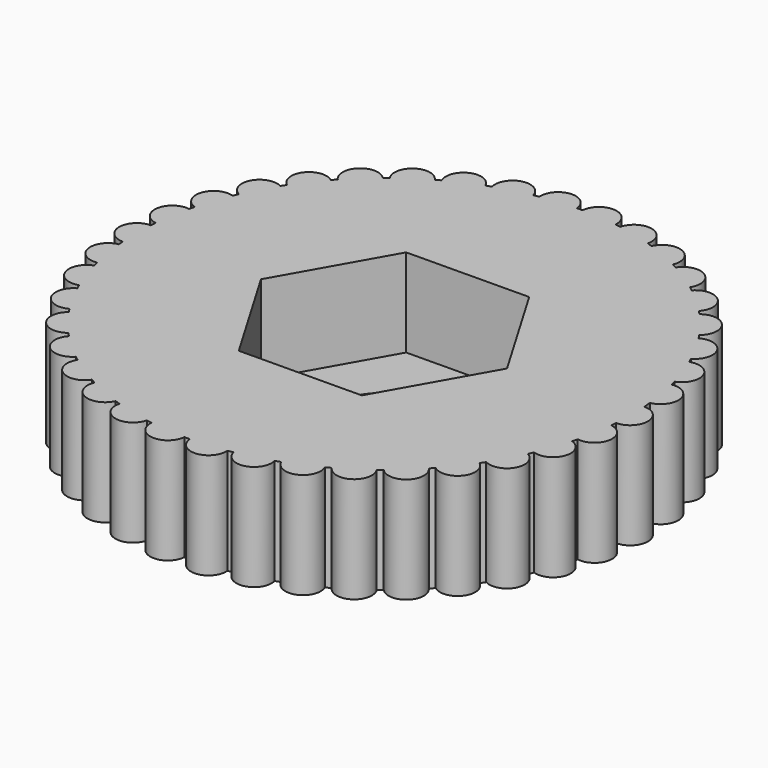
from build123d import *

# Parameters (mm, degrees)
F0_R     = 1.5
F1_DEPTH = 3
F2_DEPTH = 2.5


with BuildPart() as f1:
    # F0 (on Top) → F1 (new body)
    with BuildSketch(Plane.XY):
        with BuildLine():
            ThreePointArc((6.98212, -0.5), (6.995529, -0.25016), (7, 0))
            ThreePointArc((7, 0), (6.995529, 0.25016), (6.98212, 0.5))
            ThreePointArc((6.98212, 0.5), (6.973363, 0.61009), (6.96287, 0.720029))
            ThreePointArc((6.96287, 0.720029), (6.893654, 1.215537), (6.789222, 1.704836))
            ThreePointArc((6.789222, 1.704836), (6.769952, 1.779819), (6.749853, 1.854583))
            ThreePointArc((6.749853, 1.854583), (6.600142, 2.331979), (6.416714, 2.797461))
            ThreePointArc((6.416714, 2.797461), (6.385382, 2.868256), (6.35327, 2.938701))
            ThreePointArc((6.35327, 2.938701), (6.127134, 3.385), (5.869698, 3.814006))
            ThreePointArc((5.869698, 3.814006), (5.827157, 3.87869), (5.783904, 3.942899))
            ThreePointArc((5.783904, 3.942899), (5.487495, 4.345964), (5.163052, 4.726827))
            ThreePointArc((5.163052, 4.726827), (5.110459, 4.78364), (5.057241, 4.839867))
            ThreePointArc((5.057241, 4.839867), (4.698619, 5.188736), (4.315993, 5.511098))
            ThreePointArc((4.315993, 5.511098), (4.254778, 5.558495), (4.193043, 5.605211))
            ThreePointArc((4.193043, 5.605211), (3.78196, 5.890397), (3.351557, 6.145491))
            ThreePointArc((3.351557, 6.145491), (3.283385, 6.182183), (3.214811, 6.218118))
            ThreePointArc((3.214811, 6.218118), (2.762449, 6.431864), (2.295974, 6.612753))
            ThreePointArc((2.295974, 6.612753), (2.222698, 6.637742), (2.149151, 6.661918))
            ThreePointArc((2.149151, 6.661918), (1.66781, 6.798412), (1.177949, 6.900176))
            ThreePointArc((1.177949, 6.900176), (1.101563, 6.912782), (1.025043, 6.924542))
            ThreePointArc((1.025043, 6.924542), (0.527814, 6.980072), (0.02789, 6.999944))
            ThreePointArc((0.02789, 6.999944), (-0.049529, 6.999825), (-0.126942, 6.998849))
            ThreePointArc((-0.126942, 6.998849), (-0.626536, 6.971905), (-1.122928, 6.909344))
            ThreePointArc((-1.122928, 6.909344), (-1.199275, 6.896502), (-1.275475, 6.882817))
            ThreePointArc((-1.275475, 6.882817), (-1.763846, 6.774131), (-2.243208, 6.630839))
            ThreePointArc((-2.243208, 6.630839), (-2.316405, 6.605624), (-2.38932, 6.579601))
            ThreePointArc((-2.38932, 6.579601), (-2.853188, 6.392129), (-3.302481, 6.172003))
            ThreePointArc((-3.302481, 6.172003), (-3.370539, 6.135101), (-3.438186, 6.097449))
            ThreePointArc((-3.438186, 6.097449), (-3.864936, 5.836289), (-4.271941, 5.545315))
            ThreePointArc((-4.271941, 5.545315), (-4.333009, 5.49773), (-4.393547, 5.449472))
            ThreePointArc((-4.393547, 5.449472), (-4.771573, 5.121727), (-5.125223, 4.767818))
            ThreePointArc((-5.125223, 4.767818), (-5.17764, 4.710843), (-5.229424, 4.653292))
            ThreePointArc((-5.229424, 4.653292), (-5.548444, 4.267876), (-5.83912, 3.860657))
            ThreePointArc((-5.83912, 3.860657), (-5.881461, 3.795842), (-5.923082, 3.730563))
            ThreePointArc((-5.923082, 3.730563), (-6.174421, 3.297957), (-6.394219, 2.848503))
            ThreePointArc((-6.394219, 2.848503), (-6.425331, 2.777611), (-6.455658, 2.706379))
            ThreePointArc((-6.455658, 2.706379), (-6.632481, 2.238347), (-6.775421, 1.758881))
            ThreePointArc((-6.775421, 1.758881), (-6.79446, 1.68384), (-6.812667, 1.608592))
            ThreePointArc((-6.812667, 1.608592), (-6.910165, 1.117864), (-6.972362, 0.621426))
            ThreePointArc((-6.972362, 0.621426), (-6.978808, 0.544276), (-6.984401, 0.467059))
            ThreePointArc((-6.984401, 0.467059), (-6.999922, -0.03302), (-6.979684, -0.53293))
            ThreePointArc((-6.979684, -0.53293), (-6.973363, -0.61009), (-6.966189, -0.687176))
            ThreePointArc((-6.966189, -0.687176), (-6.899311, -1.183006), (-6.797188, -1.672792))
            ThreePointArc((-6.797188, -1.672792), (-6.778272, -1.747864), (-6.758527, -1.822723))
            ThreePointArc((-6.758527, -1.822723), (-6.611069, -2.300819), (-6.429838, -2.767161))
            ThreePointArc((-6.429838, -2.767161), (-6.398841, -2.838104), (-6.367061, -2.9087))
            ThreePointArc((-6.367061, -2.9087), (-6.143033, -3.35606), (-5.887624, -3.786276))
            ThreePointArc((-5.887624, -3.786276), (-5.845389, -3.85116), (-5.802439, -3.915572))
            ThreePointArc((-5.802439, -3.915572), (-5.507934, -4.320031), (-5.185291, -4.70242))
            ThreePointArc((-5.185291, -4.70242), (-5.132967, -4.75948), (-5.080015, -4.815958))
            ThreePointArc((-5.080015, -4.815958), (-4.723042, -5.166515), (-4.341941, -5.490678))
            ThreePointArc((-4.341941, -5.490678), (-4.280951, -5.538363), (-4.219436, -5.58537))
            ThreePointArc((-4.219436, -5.58537), (-3.809704, -5.872492), (-3.380509, -6.129613))
            ThreePointArc((-3.380509, -6.129613), (-3.31251, -6.166626), (-3.244107, -6.202884))
            ThreePointArc((-3.244107, -6.202884), (-2.792757, -6.418762), (-2.327141, -6.601849))
            ThreePointArc((-2.327141, -6.601849), (-2.253984, -6.627183), (-2.180552, -6.651706))
            ThreePointArc((-2.180552, -6.651706), (-1.69986, -6.790469), (-1.210485, -6.894543))
            ThreePointArc((-1.210485, -6.894543), (-1.134159, -6.907509), (-1.057695, -6.91963))
            ThreePointArc((-1.057695, -6.91963), (-0.560734, -6.977505), (-0.060909, -6.999735))
            ThreePointArc((-0.060909, -6.999735), (0.01651, -6.999981), (0.093926, -6.99937))
            ThreePointArc((0.093926, -6.99937), (0.593641, -6.974782), (1.090324, -6.914564))
            ThreePointArc((1.090324, -6.914564), (1.16673, -6.902082), (1.242994, -6.888757))
            ThreePointArc((1.242994, -6.888757), (1.731873, -6.782375), (2.211904, -6.641346))
            ThreePointArc((2.211904, -6.641346), (2.28522, -6.616477), (2.358257, -6.590799))
            ThreePointArc((2.358257, -6.590799), (2.823004, -6.405517), (3.27333, -6.187512))
            ThreePointArc((3.27333, -6.187512), (3.341562, -6.150932), (3.409385, -6.113599))
            ThreePointArc((3.409385, -6.113599), (3.837362, -5.854456), (4.245736, -5.565404))
            ThreePointArc((4.245736, -5.565404), (4.307028, -5.518108), (4.367793, -5.470136))
            ThreePointArc((4.367793, -5.470136), (4.74736, -5.144178), (5.102676, -4.791941))
            ThreePointArc((5.102676, -4.791941), (5.155361, -4.735214), (5.207415, -4.677908))
            ThreePointArc((5.207415, -4.677908), (5.528251, -4.294001), (5.820844, -3.888158))
            ThreePointArc((5.820844, -3.888158), (5.86349, -3.823544), (5.905419, -3.758461))
            ThreePointArc((5.905419, -3.758461), (6.158796, -3.327046), (6.380711, -2.878633))
            ThreePointArc((6.380711, -2.878633), (6.412157, -2.807889), (6.442819, -2.736801))
            ThreePointArc((6.442819, -2.736801), (6.621848, -2.269609), (6.767049, -1.790822))
            ThreePointArc((6.767049, -1.790822), (6.786441, -1.715871), (6.805003, -1.64071))
            ThreePointArc((6.805003, -1.64071), (6.904815, -1.150448), (6.969353, -0.654308))
            ThreePointArc((6.969353, -0.654308), (6.976163, -0.577189), (6.98212, -0.5))
        make_face()
        Polygon((1.705273, 3.015302), (3.463964, 0.030841), (1.758691, -2.984461), (-1.705273, -3.015302), (-3.463964, -0.030841), (-1.758691, 2.984461), align=None, mode=Mode.SUBTRACT)
        with BuildLine():
            ThreePointArc((6.98212, 0.5), (6.995529, 0.25016), (7, 0))
            ThreePointArc((7, 0), (6.995529, -0.25016), (6.98212, -0.5))
            ThreePointArc((6.98212, -0.5), (7.48212, 0), (6.98212, 0.5))
        make_face()
        with BuildLine():
            ThreePointArc((6.789222, 1.704836), (6.893654, 1.215537), (6.96287, 0.720029))
            ThreePointArc((6.96287, 0.720029), (7.36845, 1.299257), (6.789222, 1.704836))
        make_face()
        with BuildLine():
            ThreePointArc((6.805003, -1.64071), (7.380379, -1.229684), (6.969353, -0.654308))
            ThreePointArc((6.969353, -0.654308), (6.904815, -1.150448), (6.805003, -1.64071))
        make_face()
        with BuildLine():
            ThreePointArc((6.416714, 2.797461), (6.600142, 2.331979), (6.749853, 1.854583))
            ThreePointArc((6.749853, 1.854583), (7.054722, 2.492592), (6.416714, 2.797461))
        make_face()
        with BuildLine():
            ThreePointArc((6.442819, -2.736801), (7.077924, -2.425926), (6.767049, -1.790822))
            ThreePointArc((6.767049, -1.790822), (6.621848, -2.269609), (6.442819, -2.736801))
        make_face()
        with BuildLine():
            ThreePointArc((5.869698, 3.814006), (6.127134, 3.385), (6.35327, 2.938701))
            ThreePointArc((6.35327, 2.938701), (6.549136, 3.61814), (5.869698, 3.814006))
        make_face()
        with BuildLine():
            ThreePointArc((5.905419, -3.758461), (6.582979, -3.556193), (6.380711, -2.878633))
            ThreePointArc((6.380711, -2.878633), (6.158796, -3.327046), (5.905419, -3.758461))
        make_face()
        with BuildLine():
            ThreePointArc((5.163052, 4.726827), (5.487495, 4.345964), (5.783904, 3.942899))
            ThreePointArc((5.783904, 3.942899), (5.865442, 4.645289), (5.163052, 4.726827))
        make_face()
        with BuildLine():
            ThreePointArc((5.207415, -4.677908), (5.909005, -4.589747), (5.820844, -3.888158))
            ThreePointArc((5.820844, -3.888158), (5.528251, -4.294001), (5.207415, -4.677908))
        make_face()
        with BuildLine():
            ThreePointArc((4.315993, 5.511098), (4.698619, 5.188736), (5.057241, 4.839867))
            ThreePointArc((5.057241, 4.839867), (5.022233, 5.546107), (4.315993, 5.511098))
        make_face()
        with BuildLine():
            ThreePointArc((4.367793, -5.470136), (5.074331, -5.49848), (5.102676, -4.791941))
            ThreePointArc((5.102676, -4.791941), (4.74736, -5.144178), (4.367793, -5.470136))
        make_face()
        with BuildLine():
            ThreePointArc((3.351557, 6.145491), (3.78196, 5.890397), (4.193043, 5.605211))
            ThreePointArc((4.193043, 5.605211), (4.04244, 6.296094), (3.351557, 6.145491))
        make_face()
        with BuildLine():
            ThreePointArc((3.409385, -6.113599), (4.101658, -6.257677), (4.245736, -5.565404))
            ThreePointArc((4.245736, -5.565404), (3.837362, -5.854456), (3.409385, -6.113599))
        make_face()
        with BuildLine():
            ThreePointArc((2.295974, 6.612753), (2.762449, 6.431864), (3.214811, 6.218118))
            ThreePointArc((3.214811, 6.218118), (2.95271, 6.874854), (2.295974, 6.612753))
        make_face()
        with BuildLine():
            ThreePointArc((2.358257, -6.590799), (3.017437, -6.846692), (3.27333, -6.187512))
            ThreePointArc((3.27333, -6.187512), (2.823004, -6.405517), (2.358257, -6.590799))
        make_face()
        with BuildLine():
            ThreePointArc((1.177949, 6.900176), (1.66781, 6.798412), (2.149151, 6.661918))
            ThreePointArc((2.149151, 6.661918), (1.782679, 7.266648), (1.177949, 6.900176))
        make_face()
        with BuildLine():
            ThreePointArc((1.242994, -6.888757), (1.851154, -7.249507), (2.211904, -6.641346))
            ThreePointArc((2.211904, -6.641346), (1.731873, -6.782375), (1.242994, -6.888757))
        make_face()
        with BuildLine():
            ThreePointArc((0.02789, 6.999944), (0.527814, 6.980072), (1.025043, 6.924542))
            ThreePointArc((1.025043, 6.924542), (0.564167, 7.46082), (0.02789, 6.999944))
        make_face()
        with BuildLine():
            ThreePointArc((0.093926, -6.99937), (0.634528, -7.455166), (1.090324, -6.914564))
            ThreePointArc((1.090324, -6.914564), (0.593641, -6.974782), (0.093926, -6.99937))
        make_face()
        with BuildLine():
            ThreePointArc((-1.122928, 6.909344), (-0.626536, 6.971905), (-0.126942, 6.998849))
            ThreePointArc((-0.126942, 6.998849), (-0.669688, 7.45209), (-1.122928, 6.909344))
        make_face()
        with BuildLine():
            ThreePointArc((-1.057695, -6.91963), (-0.599354, -7.458076), (-0.060909, -6.999735))
            ThreePointArc((-0.060909, -6.999735), (-0.560734, -6.977505), (-1.057695, -6.91963))
        make_face()
        with BuildLine():
            ThreePointArc((-2.243208, 6.630839), (-1.763846, 6.774131), (-1.275475, 6.882817))
            ThreePointArc((-1.275475, 6.882817), (-1.88533, 7.240694), (-2.243208, 6.630839))
        make_face()
        with BuildLine():
            ThreePointArc((-2.180552, -6.651706), (-1.816937, -7.258158), (-1.210485, -6.894543))
            ThreePointArc((-1.210485, -6.894543), (-1.69986, -6.790469), (-2.180552, -6.651706))
        make_face()
        with BuildLine():
            ThreePointArc((-3.302481, 6.172003), (-2.853188, 6.392129), (-2.38932, 6.579601))
            ThreePointArc((-2.38932, 6.579601), (-3.0497, 6.832383), (-3.302481, 6.172003))
        make_face()
        with BuildLine():
            ThreePointArc((-3.244107, -6.202884), (-2.985107, -6.86085), (-2.327141, -6.601849))
            ThreePointArc((-2.327141, -6.601849), (-2.792757, -6.418762), (-3.244107, -6.202884))
        make_face()
        with BuildLine():
            ThreePointArc((-4.271941, 5.545315), (-3.864936, 5.836289), (-3.438186, 6.097449))
            ThreePointArc((-3.438186, 6.097449), (-4.13113, 6.23826), (-4.271941, 5.545315))
        make_face()
        with BuildLine():
            ThreePointArc((-4.219436, -5.58537), (-4.072094, -6.276955), (-3.380509, -6.129613))
            ThreePointArc((-3.380509, -6.129613), (-3.809704, -5.872492), (-4.219436, -5.58537))
        make_face()
        with BuildLine():
            ThreePointArc((-5.125223, 4.767818), (-4.771573, 5.121727), (-4.393547, 5.449472))
            ThreePointArc((-4.393547, 5.449472), (-5.100212, 5.474483), (-5.125223, 4.767818))
        make_face()
        with BuildLine():
            ThreePointArc((-5.080015, -4.815958), (-5.048338, -5.522355), (-4.341941, -5.490678))
            ThreePointArc((-4.341941, -5.490678), (-4.723042, -5.166515), (-5.080015, -4.815958))
        make_face()
        with BuildLine():
            ThreePointArc((-5.83912, 3.860657), (-5.548444, 4.267876), (-5.229424, 4.653292))
            ThreePointArc((-5.229424, 4.653292), (-5.930589, 4.561823), (-5.83912, 3.860657))
        make_face()
        with BuildLine():
            ThreePointArc((-5.802439, -3.915572), (-5.887289, -4.61757), (-5.185291, -4.70242))
            ThreePointArc((-5.185291, -4.70242), (-5.507934, -4.320031), (-5.802439, -3.915572))
        make_face()
        with BuildLine():
            ThreePointArc((-6.394219, 2.848503), (-6.174421, 3.297957), (-5.923082, 3.730563))
            ThreePointArc((-5.923082, 3.730563), (-6.59968, 3.525101), (-6.394219, 2.848503))
        make_face()
        with BuildLine():
            ThreePointArc((-6.367061, -2.9087), (-6.566131, -3.587206), (-5.887624, -3.786276))
            ThreePointArc((-5.887624, -3.786276), (-6.143033, -3.35606), (-6.367061, -2.9087))
        make_face()
        with BuildLine():
            ThreePointArc((-6.775421, 1.758881), (-6.632481, 2.238347), (-6.455658, 2.706379))
            ThreePointArc((-6.455658, 2.706379), (-7.089288, 2.392512), (-6.775421, 1.758881))
        make_face()
        with BuildLine():
            ThreePointArc((-6.758527, -1.822723), (-7.066402, -2.459286), (-6.429838, -2.767161))
            ThreePointArc((-6.429838, -2.767161), (-6.611069, -2.300819), (-6.758527, -1.822723))
        make_face()
        with BuildLine():
            ThreePointArc((-6.972362, 0.621426), (-6.910165, 1.117864), (-6.812667, 1.608592))
            ThreePointArc((-6.812667, 1.608592), (-7.386098, 1.194857), (-6.972362, 0.621426))
        make_face()
        with BuildLine():
            ThreePointArc((-6.966189, -0.687176), (-7.374497, -1.264484), (-6.797188, -1.672792))
            ThreePointArc((-6.797188, -1.672792), (-6.899311, -1.183006), (-6.966189, -0.687176))
        make_face()
        with BuildLine():
            ThreePointArc((-6.979684, -0.53293), (-6.999922, -0.03302), (-6.984401, 0.467059))
            ThreePointArc((-6.984401, 0.467059), (-7.482037, -0.035294), (-6.979684, -0.53293))
        make_face()
        Polygon((1.758691, -2.984461), (3.463964, 0.030841), (1.705273, 3.015302), (-1.758691, 2.984461), (-3.463964, -0.030841), (-1.705273, -3.015302), align=None)
        Circle(F0_R, mode=Mode.SUBTRACT)
    extrude(amount=F1_DEPTH)

    # F0 (on Top) → F2 (cut)
    with BuildSketch(Plane.XY):
        Polygon((1.758691, -2.984461), (3.463964, 0.030841), (1.705273, 3.015302), (-1.758691, 2.984461), (-3.463964, -0.030841), (-1.705273, -3.015302), align=None)
        Circle(F0_R, mode=Mode.SUBTRACT)
    extrude(amount=F2_DEPTH, mode=Mode.SUBTRACT)


with BuildPart() as f3_1:
    # F3: instance of F1
    add(f1.part.mirror(Plane.XY))


solid = f3_1.part
